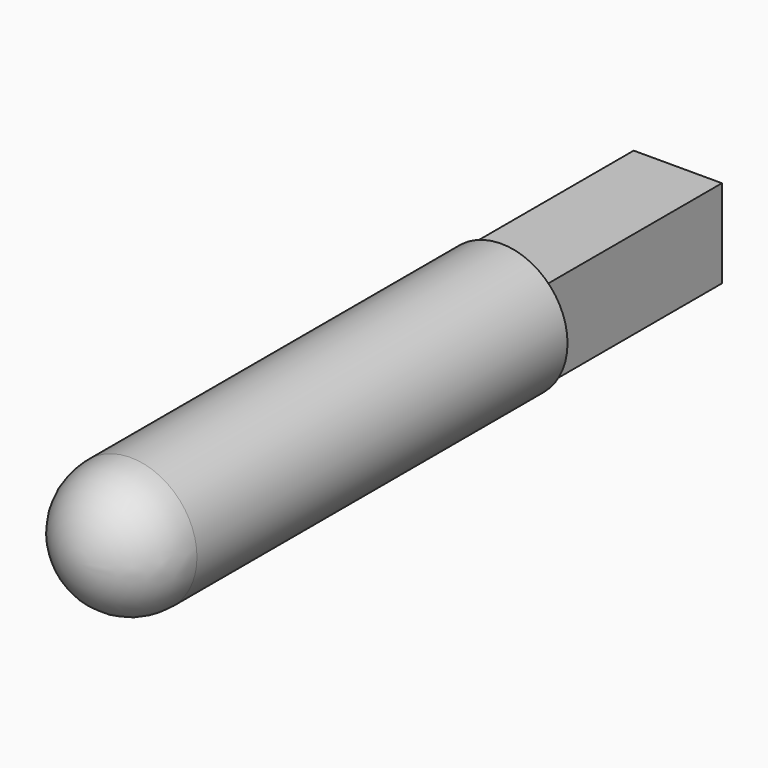
from build123d import *

# Parameters (mm, degrees)
F0_W      = 50.8
F0_H      = 50.8
F1_DEPTH  = 25.4
F1_FACE_W = 50.8
F1_FACE_H = 50.8
F2_DEPTH  = 101.6
F3_R      = 38.1
F4_DEPTH  = 304.8
F5_R      = 38.1


with BuildPart() as f1:
    # F0 (on Front) → F1 (new body)
    with BuildSketch(Plane.XZ):
        Rectangle(F0_W, F0_H)
    extrude(amount=F1_DEPTH)

    # F1_face (on face) → F2 (join)
    with BuildSketch(Plane.XZ.offset(25.4)):
        Rectangle(F1_FACE_W, F1_FACE_H)
    extrude(amount=F2_DEPTH)

    # F3 (on face) → F4 (join)
    with BuildSketch(Plane.XZ.offset(127)):
        Circle(F3_R)
    extrude(amount=F4_DEPTH)

    # F5
    f5_edges = [f1.edges().sort_by_distance(p)[0] for p in [
        (-38.1, -431.8, 0),
    ]]
    fillet(f5_edges, radius=F5_R)


solid = f1.part
